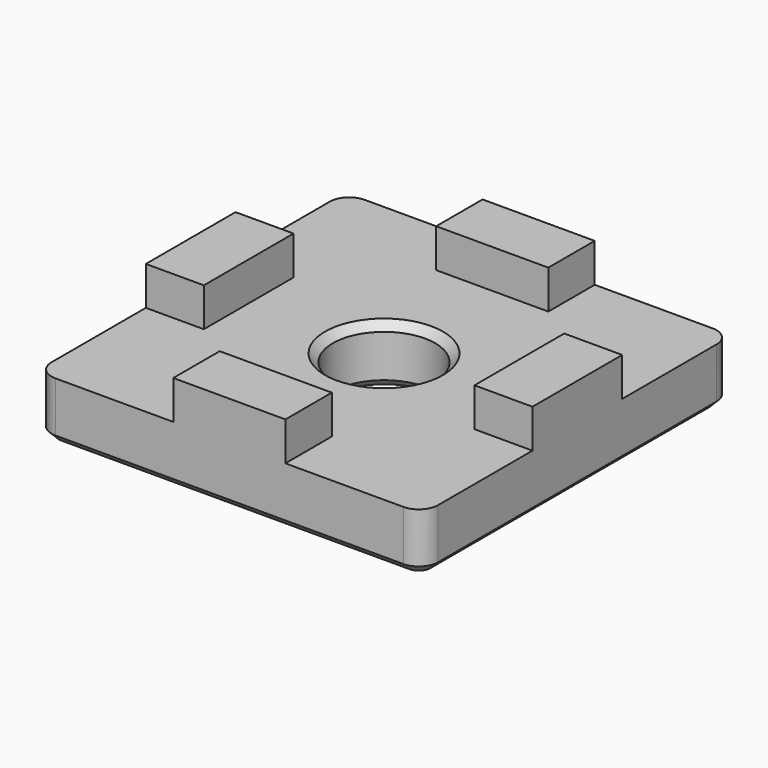
from build123d import *

# Parameters (mm, degrees)
SKETCH007_W           = 20
SKETCH007_H           = 20
SKETCH007_R           = 2.65
PAD004_DEPTH          = 3
SKETCH008_W           = 5.8
SKETCH008_H           = 3
PAD005_DEPTH          = 2
POLARPATTERN001_COUNT = 4
FILLET001_R           = 1
CHAMFER007_SIZE       = 0.4


with BuildPart() as part:
    # Sketch007 → Pad004 (new body)
    with BuildSketch(Plane.XY):
        Rectangle(SKETCH007_W, SKETCH007_H)
        Circle(SKETCH007_R, mode=Mode.SUBTRACT)
    extrude(amount=PAD004_DEPTH)

    # Sketch008 (on Face7 of Pad004) → Pad005 (join)
    with BuildSketch(Plane.XY.offset(3)):
        with Locations((0, 8.5)):
            Rectangle(SKETCH008_W, SKETCH008_H)
    pad005 = extrude(amount=PAD005_DEPTH)

    # PolarPattern001: Pad005 ×4 about axis
    polarpattern001_axis = Axis((0, 0, 3), (0, 0, 1))
    for i in range(1, POLARPATTERN001_COUNT):
        add(pad005.rotate(polarpattern001_axis, i * 360 / POLARPATTERN001_COUNT))

    # Fillet001
    fillet001_edges = [part.edges().sort_by_distance(p)[0] for p in [
        (10, -10, 1.5),
        (10, 10, 1.5),
        (-10, 10, 1.5),
        (-10, -10, 1.5),
    ]]
    fillet(fillet001_edges, radius=FILLET001_R)

    # Chamfer007
    chamfer007_edges = [part.edges().sort_by_distance(p)[0] for p in [
        (10, 0, 0),
        (-2.65, 0, 3),
        (-2.65, 0, 0),
    ]]
    chamfer(chamfer007_edges, length=CHAMFER007_SIZE)


solid = part.part
